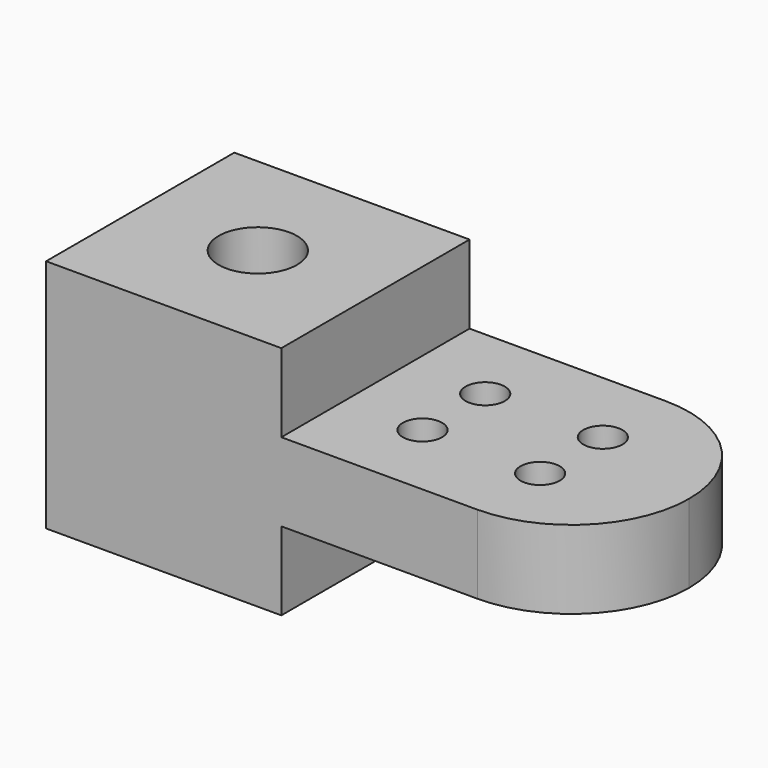
from build123d import *

# Parameters (mm, degrees)
F1_DEPTH = 38.1
F2_R     = 3.175
F3_DEPTH = 25.401
F4_R     = 6.35
F5_DEPTH = 38.101


with BuildPart() as f1:
    # F0 (on Front) → F1 (new body)
    with BuildSketch(Plane.XZ):
        Polygon((0, 38.1), (0, 0), (38.1, 0), (38.1, 12.7), (88.9, 12.7), (88.9, 25.4), (38.1, 25.4), (38.1, 38.1), align=None)
    extrude(amount=-F1_DEPTH)

    # F2 (on face) → F3 (cut, through all)
    with BuildSketch(Plane.XY.offset(25.4)):
        with Locations((50.8, 25.4)):
            Circle(F2_R)
        with BuildLine():
            Line((88.9, 38.1), (69.85, 38.1))
            ThreePointArc((69.85, 38.1), (83.320384, 32.520384), (88.9, 19.05))
            Line((88.9, 19.05), (88.9, 38.1))
        make_face()
        with BuildLine():
            ThreePointArc((88.9, 19.05), (83.320384, 5.579616), (69.85, 0))
            Line((69.85, 0), (88.9, 0))
            Line((88.9, 0), (88.9, 19.05))
        make_face()
        with Locations((69.85, 25.4)):
            Circle(F2_R)
        with Locations((69.85, 12.7)):
            Circle(F2_R)
        with Locations((50.8, 12.7)):
            Circle(F2_R)
    extrude(amount=-F3_DEPTH, mode=Mode.SUBTRACT)

    # F4 (on face) → F5 (cut, through all)
    with BuildSketch(Plane.XY.offset(38.1)):
        with Locations((19.05, 19.05)):
            Circle(F4_R)
    extrude(amount=-F5_DEPTH, mode=Mode.SUBTRACT)


solid = f1.part
